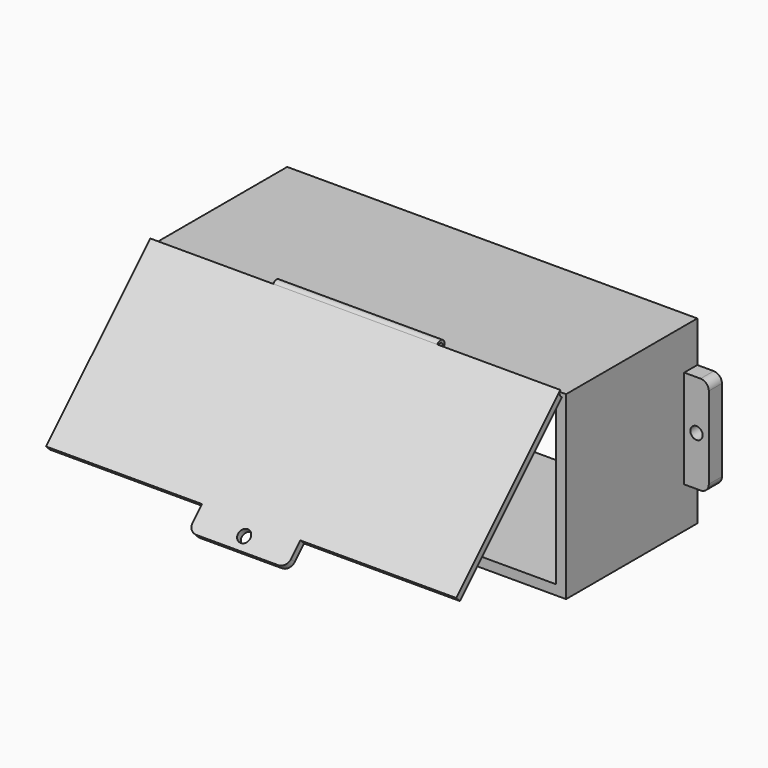
from build123d import *

# Parameters (mm, degrees)
F0_W           = 238
F0_H           = 98
F1_DEPTH       = 100
F0_W_2         = 15
F0_H_2         = 60
F0_R           = 3.75
F2_DEPTH       = 10
F3_R           = 5
F4_W           = 60
F4_H           = 15
F4_R           = 3.75
F5_DEPTH       = 10
F6_R           = 5
F7_R           = 3
F7_R_2         = 1.5
F8_DEPTH       = 50
F11_END_RADIUS = 3
F10_W          = 250
F10_H          = 4
F11_REACH      = 402.309667303
F12_R          = 3.75
F13_DEPTH      = 4
F14_R          = 5


with BuildPart() as f1:
    # F0 (on Front) → F1 (new body)
    with BuildSketch(Plane.XZ):
        Polygon((125, 55), (-125, 55), (-125, 30), (-125, -30), (-125, -55), (125, -55), (125, -30), (125, 30), align=None)
        Rectangle(F0_W, F0_H, mode=Mode.SUBTRACT)
    extrude(amount=F1_DEPTH)

    # F0 (on Front) → F2 (join)
    with BuildSketch(Plane.XZ):
        with Locations((132.5, 0)):
            Rectangle(F0_W_2, F0_H_2)
        with Locations((132.5, 0)):
            Circle(F0_R, mode=Mode.SUBTRACT)
        with Locations((-132.5, 0)):
            Rectangle(F0_W_2, F0_H_2)
        with Locations((-132.5, 0)):
            Circle(F0_R, mode=Mode.SUBTRACT)
    extrude(amount=F2_DEPTH)

    # F3
    f3_edges = [f1.edges().sort_by_distance(p)[0] for p in [
        (140, -5, 30),
        (140, -5, -30),
        (-140, -5, -30),
        (-140, -5, 30),
    ]]
    fillet(f3_edges, radius=F3_R)

    # F4 (on face) → F5 (join)
    with BuildSketch(Plane.XZ.offset(100)):
        with Locations((0, -62.5)):
            Rectangle(F4_W, F4_H)
        with Locations((0, -62.5)):
            Circle(F4_R, mode=Mode.SUBTRACT)
    extrude(amount=-F5_DEPTH)

    # F6
    f6_edges = [f1.edges().sort_by_distance(p)[0] for p in [
        (-30, -95, -70),
        (30, -95, -70),
    ]]
    fillet(f6_edges, radius=F6_R)


with BuildPart() as f8:
    # F7 (on Right) → F8 (new body, symmetric)
    with BuildSketch(Plane.YZ):
        with Locations((-101.8626221217, 57.3517310288)):
            Circle(F7_R)
        with Locations((-101.8626221217, 57.3517310288)):
            Circle(F7_R_2, mode=Mode.SUBTRACT)
    extrude(amount=F8_DEPTH, both=True)

    f11_end = (Plane(origin=(0, -101.8626221217, 57.3517310288), x_dir=(0, 0, 1), z_dir=(1, 0, 0)) * Cylinder(F11_END_RADIUS, 1456.9620154124, mode=Mode.PRIVATE)).faces().sort_by_distance((0, -104.8626221217, 57.3517310288))[0]
    # F10 (on face) → F11 (join, up to the whole of a round face its end follows)
    with BuildSketch(Plane(origin=(0, -77.5, -77.5), x_dir=(-1, 0, 0), z_dir=(0, 0.7071067812, 0.7071067812))):
        with Locations((0, 113.5263462286)):
            Rectangle(F10_W, F10_H)
    f11_long = extrude(amount=F11_REACH, mode=Mode.PRIVATE)
    add(split(f11_long, bisect_by=f11_end, keep=Keep.ALL, mode=Mode.PRIVATE).solids().sort_by_distance((0, -157.7752492616, 2.7752492616))[0])

    # F12 (on face) → F13 (join)
    with BuildSketch(Plane(origin=(0, -78.8610356992, 78.8610356992), x_dir=(1, 0, 0), z_dir=(0, 0.7071067812, -0.7071067812))):
        Polygon((-125, 109.6015510839), (125, 109.6015510839), (125, 144.2822510839), (30, 144.2822510839), (30, 159.2822510839), (-30, 159.2822510839), (-30, 144.2822510839), (-125, 144.2822510839), align=None)
        with Locations((0, 151.7822510839)):
            Circle(F12_R, mode=Mode.SUBTRACT)
    extrude(amount=-F13_DEPTH)

    # F14
    f14_edges = [f8.edges().sort_by_distance(p)[0] for p in [
        (30, -192.904809, -32.354311),
        (-30, -192.904809, -32.354311),
    ]]
    fillet(f14_edges, radius=F14_R)


with BuildPart() as f8_1:
    # F15: moved
    add(f8.part)


solid = Compound([f1.part, f8_1.part])
